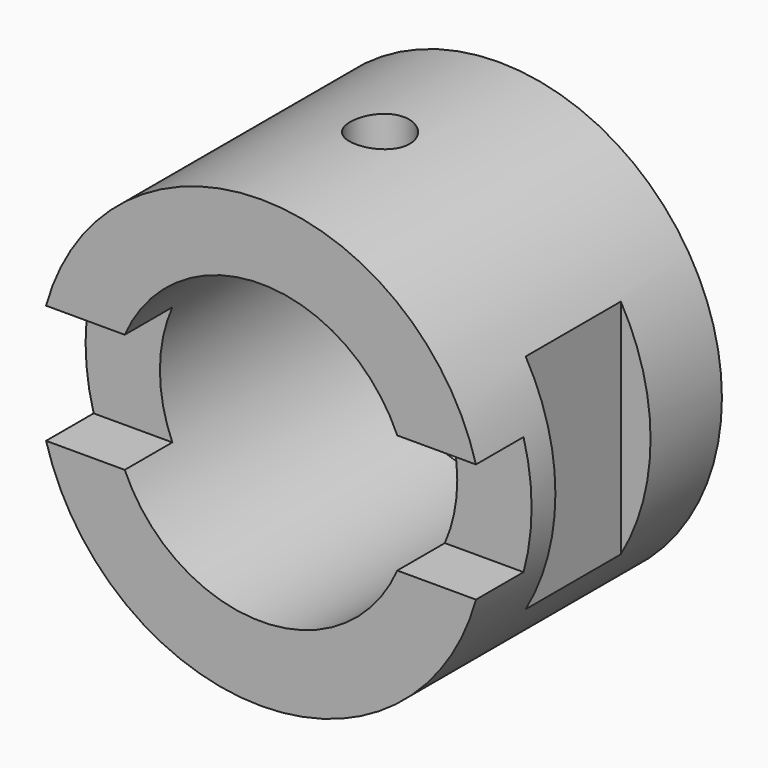
from build123d import *

# Parameters (mm, degrees)
F0_R     = 37.5
F0_R_2   = 25
F1_DEPTH = 25
F2_W     = 5
F2_H     = 20
F3_DEPTH = 50
F2_W_2   = 75
F2_H_2   = 10
F4_DEPTH = 10
F5_DEPTH = 10
F2_R     = 5
F6_DEPTH = 37.501


with BuildPart() as f1:
    # F0 (on Front) → F1 (new body, symmetric)
    with BuildSketch(Plane.XZ):
        Circle(F0_R)
        Circle(F0_R_2, mode=Mode.SUBTRACT)
    extrude(amount=F1_DEPTH, both=True)

    # F2 (on Top) → F3 (cut, symmetric)
    with BuildSketch(Plane.XY):
        with Locations((-35, 0)):
            Rectangle(F2_W, F2_H)
        with Locations((35, 0)):
            Rectangle(F2_W, F2_H)
    extrude(amount=F3_DEPTH, both=True, mode=Mode.SUBTRACT)

    # F2 (on Top) → F4 (cut, symmetric)
    with BuildSketch(Plane.XY):
        with Locations((0, -20)):
            Rectangle(F2_W_2, F2_H_2)
    extrude(amount=F4_DEPTH, both=True, mode=Mode.SUBTRACT)

    # F2 (on Top) → F5 (cut, symmetric)
    with BuildSketch(Plane.XY):
        with Locations((0, -20)):
            Rectangle(F2_W_2, F2_H_2)
    extrude(amount=F5_DEPTH, both=True, mode=Mode.SUBTRACT)

    # F2 (on Top) → F6 (cut, through all)
    with BuildSketch(Plane.XY):
        Circle(F2_R)
    extrude(amount=F6_DEPTH, mode=Mode.SUBTRACT)


solid = f1.part
